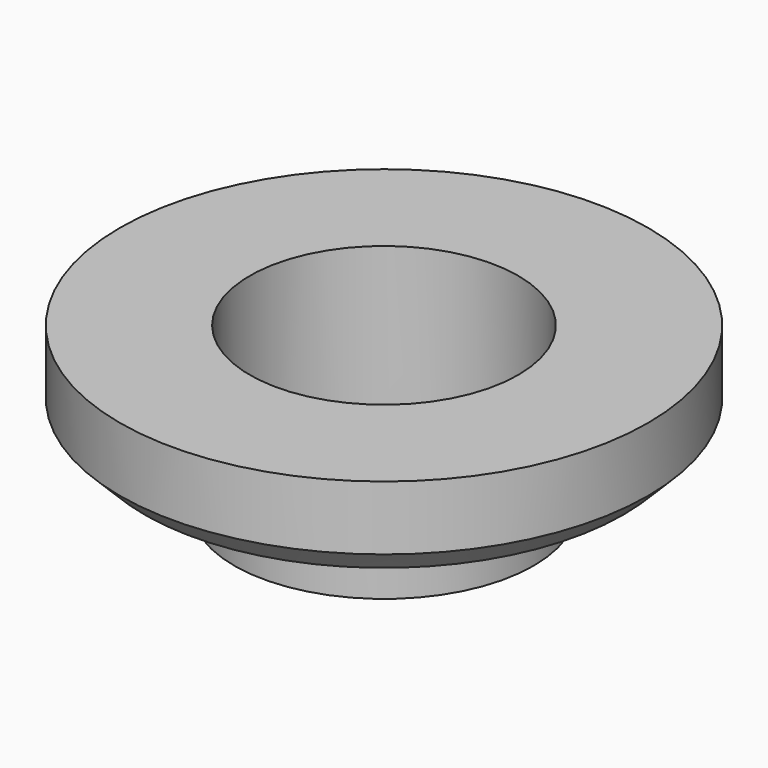
from build123d import *

# Parameters (mm, degrees)
F0_R     = 30.348446
F0_R_2   = 27.203675
F1_DEPTH = 15
F2_R     = 53.512853
F3_DEPTH = 18
F4_DEPTH = 81.4
F5_SIZE  = 5


with BuildPart() as f1:
    # F0 (on Top) → F1 (new body)
    with BuildSketch(Plane.XY):
        Circle(F0_R)
        Circle(F0_R_2, mode=Mode.SUBTRACT)
    extrude(amount=F1_DEPTH)

    # F2 (on face) → F3 (join)
    with BuildSketch(Plane.XY.offset(15)):
        Circle(F2_R)
    extrude(amount=F3_DEPTH)

    # F0 (on Top) → F4 (cut)
    with BuildSketch(Plane.XY):
        Circle(F0_R_2)
    extrude(amount=F4_DEPTH, mode=Mode.SUBTRACT)

    # F5
    f5_edges = [f1.edges().sort_by_distance(p)[0] for p in [
        (-53.512853, 0, 15),
    ]]
    chamfer(f5_edges, length=F5_SIZE)


solid = f1.part
